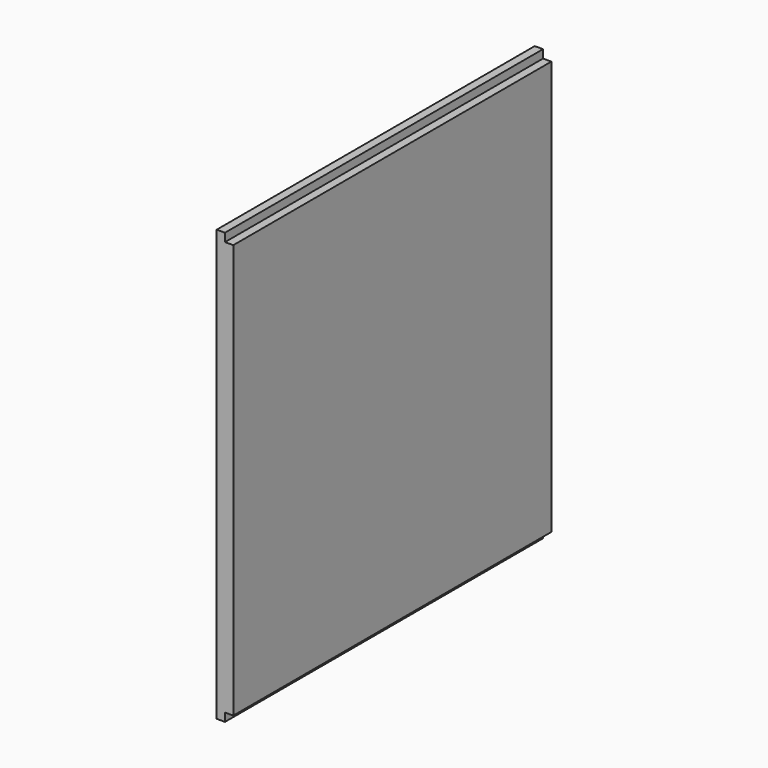
from build123d import *

# Parameters (mm, degrees)
F0_W     = 304.8
F0_H     = 330.2
F1_DEPTH = 6.35
F2_W     = 6.35
F2_H     = 6.35
F3_DEPTH = 152.4


with BuildPart() as f1:
    # F0 (on Right) → F1 (new body, symmetric)
    with BuildSketch(Plane.YZ):
        Rectangle(F0_W, F0_H)
    extrude(amount=F1_DEPTH, both=True)

    # F2 (on Front) → F3 (cut, symmetric)
    with BuildSketch(Plane.XZ):
        with Locations((3.175, -161.925)):
            Rectangle(F2_W, F2_H)
        with Locations((3.175, 161.925)):
            Rectangle(F2_W, F2_H)
    extrude(amount=F3_DEPTH, both=True, mode=Mode.SUBTRACT)


solid = f1.part
